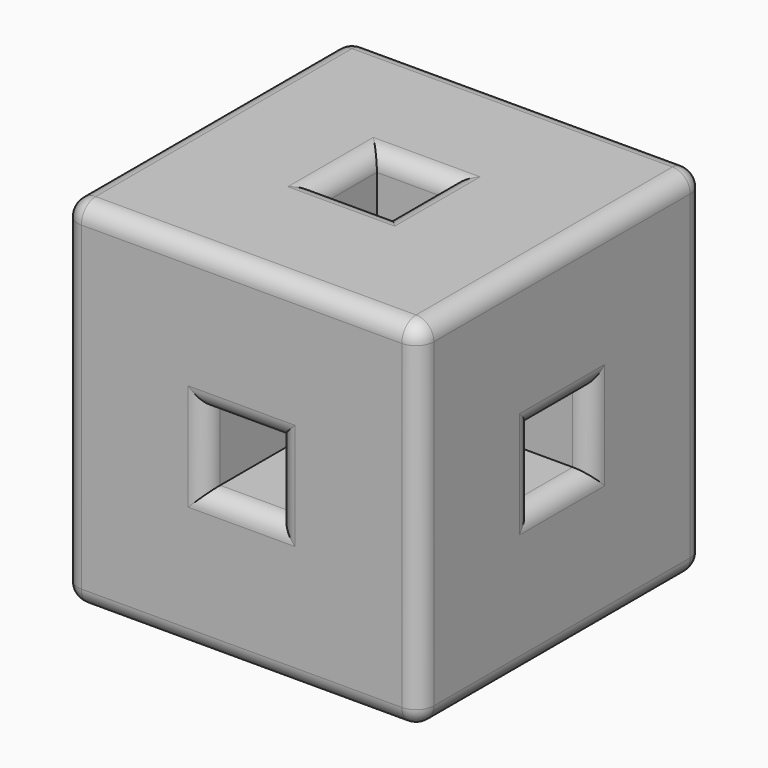
from build123d import *

# Parameters (mm, degrees)
F0_W     = 254
F0_H     = 254
F6_DEPTH = 127
F7_W     = 50.8
F7_H     = 50.8
F1_DEPTH = 254.001
F2_W     = 50.8
F2_H     = 50.8
F3_DEPTH = 254.001
F4_W     = 50.8
F4_H     = 50.8
F8_DEPTH = 254.001
F9_R     = 12.7


with BuildPart() as f6:
    # F0 (on Front) → F6 (new body, symmetric)
    with BuildSketch(Plane.XZ):
        Rectangle(F0_W, F0_H)
    extrude(amount=F6_DEPTH, both=True)

    # F7 (on face) → F1 (cut, through all)
    with BuildSketch(Plane(origin=(0, 0, -127), x_dir=(1, 0, 0), z_dir=(0, 0, -1))):
        Rectangle(F7_W, F7_H)
    extrude(amount=-F1_DEPTH, mode=Mode.SUBTRACT)

    # F2 (on face) → F3 (cut, through all)
    with BuildSketch(Plane.YZ.offset(127)):
        Rectangle(F2_W, F2_H)
    extrude(amount=-F3_DEPTH, mode=Mode.SUBTRACT)

    # F4 (on face) → F8 (cut, through all)
    with BuildSketch(Plane(origin=(0, 127, 0), x_dir=(-1, 0, 0), z_dir=(0, 1, 0))):
        Rectangle(F4_W, F4_H)
    extrude(amount=-F8_DEPTH, mode=Mode.SUBTRACT)

    # F9
    f9_edges = [f6.edges().sort_by_distance(p)[0] for p in [
        (127, 127, 0),
        (127, 0, -127),
        (127, 0, 127),
        (127, -127, 0),
        (127, 25.4, 0),
        (127, 0, 25.4),
        (127, -25.4, 0),
        (127, 0, -25.4),
        (0, -127, -127),
        (0, -127, 127),
        (-127, -127, 0),
        (-25.4, -127, 0),
        (0, -127, -25.4),
        (25.4, -127, 0),
        (0, -127, 25.4),
        (-127, 0, 127),
        (-127, 127, 0),
        (-127, 0, -127),
        (-127, 25.4, 0),
        (-127, 0, -25.4),
        (-127, -25.4, 0),
        (-127, 0, 25.4),
        (0, 127, -127),
        (0, 127, 127),
        (0, 127, -25.4),
        (25.4, 127, 0),
        (0, 127, 25.4),
        (-25.4, 127, 0),
        (25.4, 0, 127),
        (0, 25.4, 127),
        (-25.4, 0, 127),
        (0, -25.4, 127),
        (25.4, 0, -127),
        (0, -25.4, -127),
        (-25.4, 0, -127),
        (0, 25.4, -127),
    ]]
    fillet(f9_edges, radius=F9_R)


solid = f6.part
